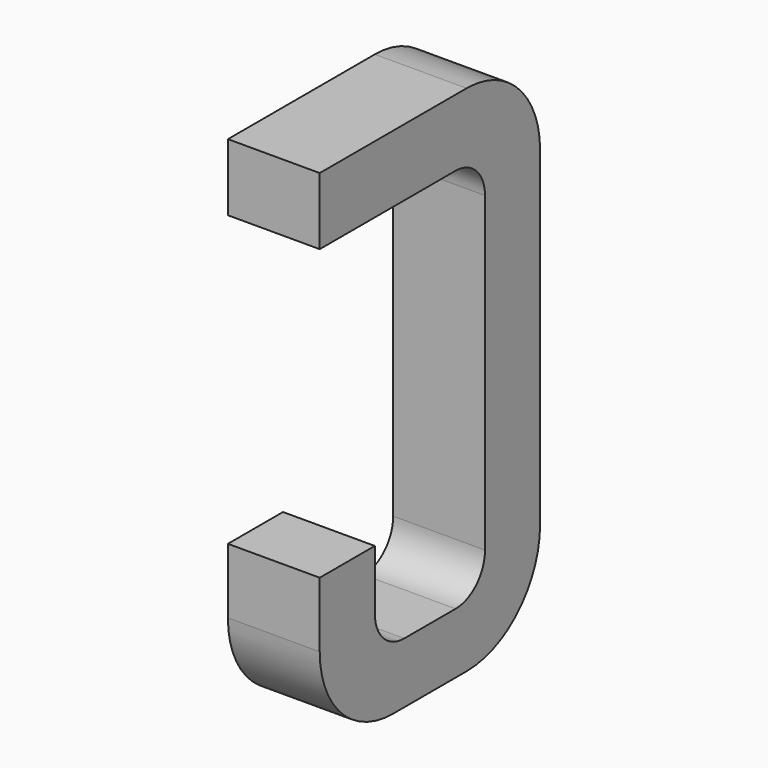
from build123d import *

# Parameters (mm, degrees)
BOX071_W     = 0.5
BOX071_H     = 1.5
BOX071_DEPTH = 2.795
FILLET129_R  = 0.5
FILLET138_R  = 0.5
FILLET125_R  = 0.5
BOX073_W     = 0.75
BOX073_H     = 2.1
BOX073_DEPTH = 1
FILLET121_R  = 0.2
FILLET130_R  = 0.2
FILLET120_R  = 0.2
FILLET122_R  = 0.2
BOX076_W     = 1
BOX076_H     = 1.575
BOX076_DEPTH = 3


with BuildPart() as part:
    # Box071 → Box071 (join)
    with BuildSketch(Plane(origin=(-0.25, 11.125, 0), x_dir=(1, 0, 0), z_dir=(0, 0, 1))):
        with Locations((0.25, 0.75)):
            Rectangle(BOX071_W, BOX071_H)
    extrude(amount=BOX071_DEPTH)

    # Fillet129
    fillet129_edges = [part.edges().sort_by_distance(p)[0] for p in [
        (0, 12.625, 0),
    ]]
    fillet(fillet129_edges, radius=FILLET129_R)

    # Fillet138
    fillet138_edges = [part.edges().sort_by_distance(p)[0] for p in [
        (0, 12.625, 2.795),
    ]]
    fillet(fillet138_edges, radius=FILLET138_R)

    # Fillet125
    fillet125_edges = [part.edges().sort_by_distance(p)[0] for p in [
        (0, 11.125, 0),
    ]]
    fillet(fillet125_edges, radius=FILLET125_R)

    # Box073 → Box073 (cut)
    with BuildSketch(Plane(origin=(-0.5, 11.5, 0.33), x_dir=(0, 1, 0), z_dir=(1, 0, 0))):
        with Locations((0.375, 1.05)):
            Rectangle(BOX073_W, BOX073_H)
    extrude(amount=BOX073_DEPTH, mode=Mode.SUBTRACT)

    # Fillet121
    fillet121_edges = [part.edges().sort_by_distance(p)[0] for p in [
        (0, 11.5, 0.33),
    ]]
    fillet(fillet121_edges, radius=FILLET121_R)

    # Fillet130
    fillet130_edges = [part.edges().sort_by_distance(p)[0] for p in [
        (0, 12.25, 0.33),
    ]]
    fillet(fillet130_edges, radius=FILLET130_R)

    # Fillet120
    fillet120_edges = [part.edges().sort_by_distance(p)[0] for p in [
        (0, 11.5, 2.43),
    ]]
    fillet(fillet120_edges, radius=FILLET120_R)

    # Fillet122
    fillet122_edges = [part.edges().sort_by_distance(p)[0] for p in [
        (0, 12.25, 2.43),
    ]]
    fillet(fillet122_edges, radius=FILLET122_R)

    # Box076 → Box076 (cut)
    with BuildSketch(Plane(origin=(-1, 11, 0.855), x_dir=(0, 1, 0), z_dir=(1, 0, 0))):
        with Locations((0.5, 0.7875)):
            Rectangle(BOX076_W, BOX076_H)
    extrude(amount=BOX076_DEPTH, mode=Mode.SUBTRACT)


with BuildPart() as part_1:
    # Body018 placement: moved
    add(part.part.moved(Location((5.08, 0, 0))))


solid = part_1.part
